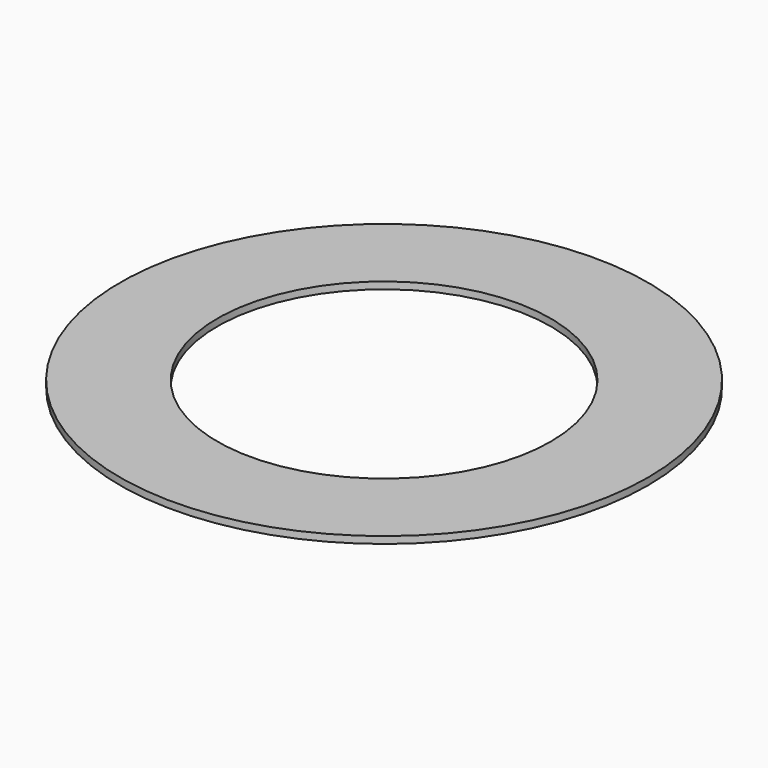
from build123d import *

# Parameters (mm, degrees)
F0_R     = 9.5
F1_DEPTH = 0.25


with BuildPart() as f1:
    # F0 (on Top) → F1 (new body)
    with BuildSketch(Plane.XY):
        Circle(F0_R)
        with BuildLine():
            ThreePointArc((5.511889, -2.370461), (-5.876705, 1.210097), (6, 0))
            Line((6, 0), (6, -2.370461))
            Line((6, -2.370461), (5.511889, -2.370461))
        make_face(mode=Mode.SUBTRACT)
        with BuildLine():
            Line((6, -2.370461), (6, 0))
            ThreePointArc((6, 0), (5.876705, -1.210097), (5.511889, -2.370461))
            Line((5.511889, -2.370461), (6, -2.370461))
        make_face()
    extrude(amount=F1_DEPTH)


solid = f1.part
